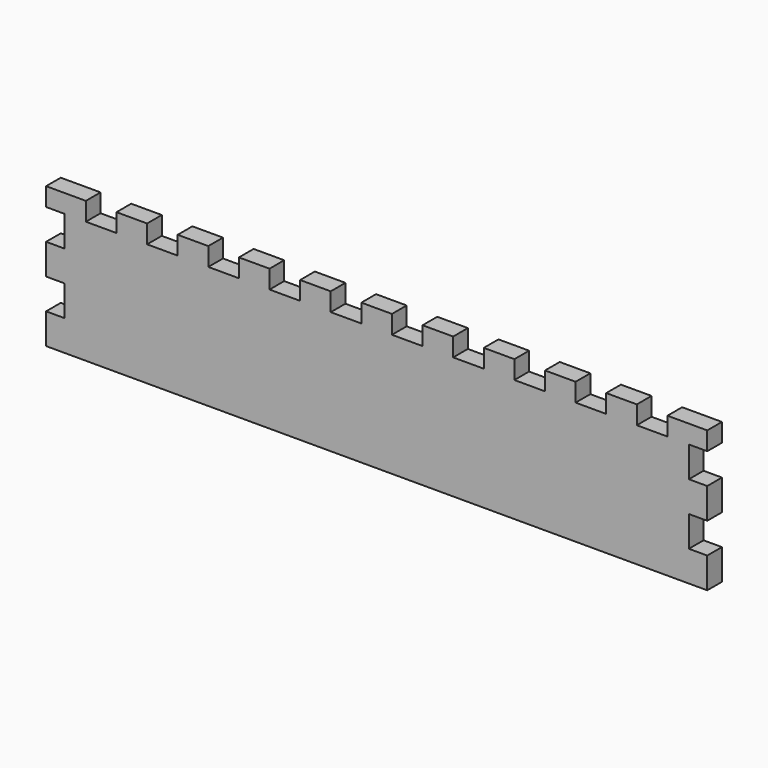
from build123d import *

# Parameters (mm, degrees)
F0_W     = 102
F0_H     = 40
F1_DEPTH = 3
F2_W     = 3
F2_H     = 5
F3_DEPTH = 3
F4_W     = 5
F4_H     = 3
F5_DEPTH = 3
F6_W     = 108
F6_H     = 20
F7_DEPTH = 25


with BuildPart() as f1:
    # F0 (on Front) → F1 (new body)
    with BuildSketch(Plane.XZ):
        Rectangle(F0_W, F0_H)
    extrude(amount=F1_DEPTH)

    # F2 (on face) → F3 (join)
    with BuildSketch(Plane.XZ.offset(3)):
        with Locations((-52.5, -17.5)):
            Rectangle(F2_W, F2_H)
        with Locations((-52.5, -7.5)):
            Rectangle(F2_W, F2_H)
        with Locations((-52.5, 2.5)):
            Rectangle(F2_W, F2_H)
        with Locations((-52.5, 12.5)):
            Rectangle(F2_W, F2_H)
        with Locations((52.5, -7.5)):
            Rectangle(F2_W, F2_H)
        with Locations((52.5, -17.5)):
            Rectangle(F2_W, F2_H)
        with Locations((52.5, 12.5)):
            Rectangle(F2_W, F2_H)
        with Locations((52.5, 2.5)):
            Rectangle(F2_W, F2_H)
    extrude(amount=-F3_DEPTH)

    # F4 (on face) → F5 (join)
    with BuildSketch(Plane(origin=(0, 0, 0), x_dir=(-1, 0, 0), z_dir=(0, 1, 0))):
        with Locations((0, 21.5)):
            Rectangle(F4_W, F4_H)
        with Locations((10, 21.5)):
            Rectangle(F4_W, F4_H)
        with Locations((20, 21.5)):
            Rectangle(F4_W, F4_H)
        with Locations((30, 21.5)):
            Rectangle(F4_W, F4_H)
        with Locations((40, 21.5)):
            Rectangle(F4_W, F4_H)
        Polygon((52.5, 23), (47.5, 23), (47.5, 20), (52.5, 20), (54, 20), (54, 23), align=None)
        Polygon((-52.5, 20), (-47.5, 20), (-47.5, 23), (-52.5, 23), (-54, 23), (-54, 20), align=None)
        with Locations((-20, 21.5)):
            Rectangle(F4_W, F4_H)
        with Locations((-10, 21.5)):
            Rectangle(F4_W, F4_H)
        with Locations((-30, 21.5)):
            Rectangle(F4_W, F4_H)
        with Locations((-40, 21.5)):
            Rectangle(F4_W, F4_H)
    extrude(amount=-F5_DEPTH)

    # F6 (on face) → F7 (cut)
    with BuildSketch(Plane(origin=(0, 0, 0), x_dir=(-1, 0, 0), z_dir=(0, 1, 0))):
        with Locations((0, -10)):
            Rectangle(F6_W, F6_H)
    extrude(amount=-F7_DEPTH, mode=Mode.SUBTRACT)


solid = f1.part
